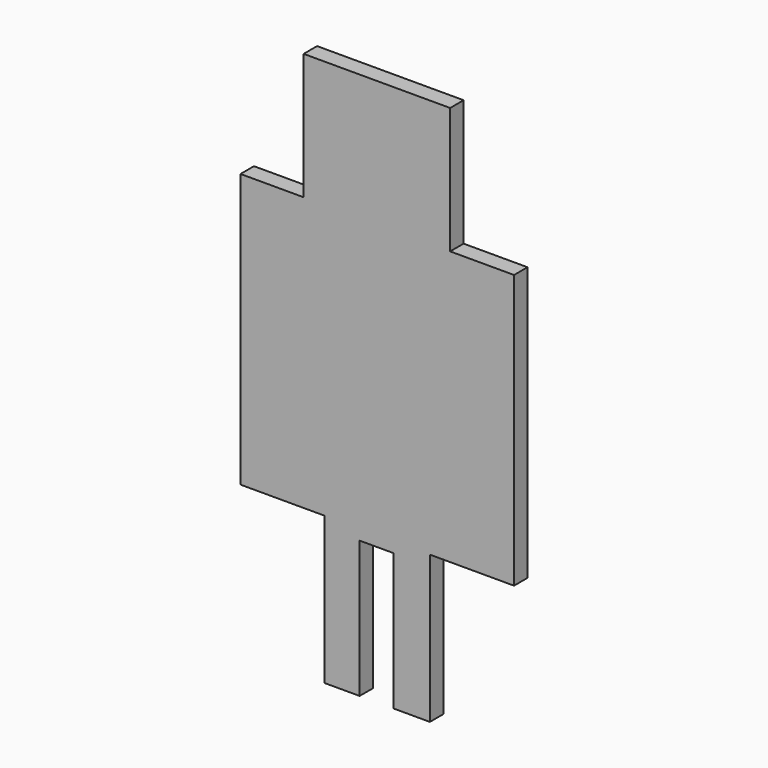
from build123d import *

# Parameters (mm, degrees)
F1_DEPTH = 5.08


with BuildPart() as f1:
    # F0 (on Front) → F1 (new body)
    with BuildSketch(Plane.XZ):
        Polygon((-70.927278, 51.875299), (-89.977278, 51.875299), (-89.977278, -30.674701), (-64.577278, -30.674701), (-64.577278, -75.124701), (-54.026861, -75.124701), (-54.026861, -33.849701), (-43.866861, -33.849701), (-43.866861, -75.124701), (-32.827278, -75.124701), (-32.827278, -30.674701), (-7.427278, -30.674701), (-7.427278, 51.875299), (-26.477278, 51.875299), (-26.710607, 51.875299), (-26.710607, 89.975299), (-70.927278, 89.975299), align=None)
        Polygon((-70.927278, 51.875299), (-89.977278, 51.875299), (-89.977278, -30.674701), (-64.577278, -30.674701), (-64.577278, -75.124701), (-54.026861, -75.124701), (-54.026861, -33.849701), (-43.866861, -33.849701), (-43.866861, -75.124701), (-32.827278, -75.124701), (-32.827278, -30.674701), (-7.427278, -30.674701), (-7.427278, 51.875299), (-26.477278, 51.875299), (-26.710607, 51.875299), (-26.710607, 89.975299), (-70.927278, 89.975299), align=None)
    extrude(amount=F1_DEPTH)


solid = f1.part
